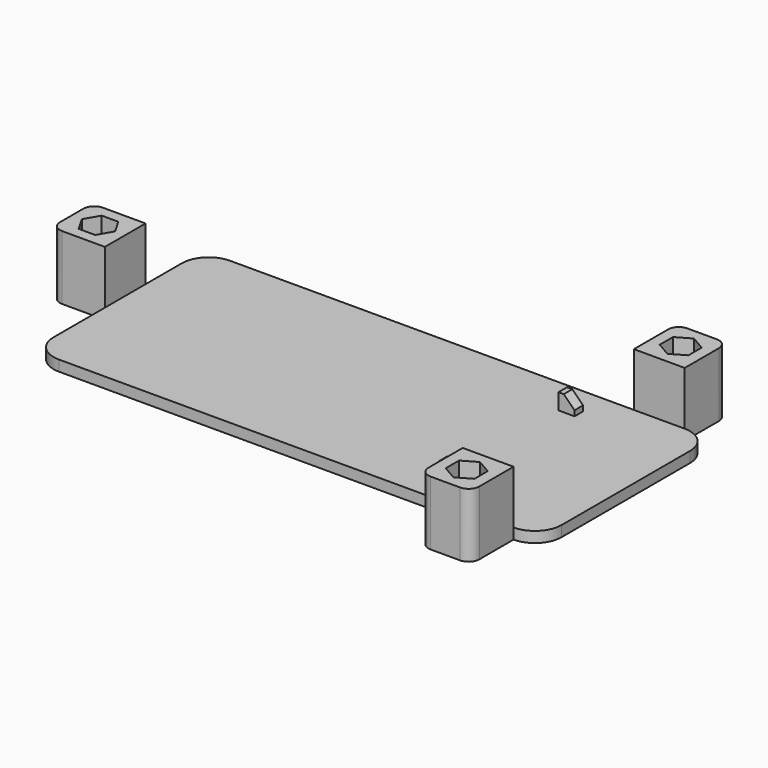
from build123d import *

# Parameters (mm, degrees)
PAD_DEPTH       = 2
SKETCH017_W     = 10
SKETCH017_H     = 9.5
SKETCH017_W_2   = 9.5
SKETCH017_H_2   = 10
PAD006_DEPTH    = 2
SKETCH018_W     = 10
SKETCH018_H     = 9.5
SKETCH018_W_2   = 9.5
SKETCH018_H_2   = 10
PAD007_DEPTH    = 10
SKETCH020_R     = 1.6
POCKET008_DEPTH = 9
POCKET011_DEPTH = 4
FILLET002_R     = 2
SKETCH028_W     = 3
SKETCH028_H     = 2
PAD010_DEPTH    = 3
CHAMFER_SIZE    = 2


with BuildPart() as part:
    # Sketch → Pad (new body)
    with BuildSketch(Plane.XY):
        with BuildLine():
            Line((5, 0), (90, 0))
            ThreePointArc((90, 0), (93.5355339059, 1.4644660941), (95, 5))
            Line((95, 5), (95, 35))
            ThreePointArc((95, 35), (93.5355339059, 38.5355339059), (90, 40))
            Line((90, 40), (5, 40))
            ThreePointArc((5, 40), (1.4644660941, 38.5355339059), (0, 35))
            Line((0, 35), (0, 5))
            ThreePointArc((0, 5), (1.4644660941, 1.4644660941), (5, 0))
        make_face()
    extrude(amount=PAD_DEPTH)

    # Sketch017 (on Face10 of Pad) → Pad006 (join)
    with BuildSketch(Plane.XY.offset(2)):
        with Locations((-5, 21.75)):
            Rectangle(SKETCH017_W, SKETCH017_H)
        with Locations((85.25, -5)):
            Rectangle(SKETCH017_W_2, SKETCH017_H_2)
        with Locations((85.25, 45)):
            Rectangle(SKETCH017_W_2, SKETCH017_H_2)
    extrude(amount=-PAD006_DEPTH)

    # Sketch018 (on Face18 of Pad006) → Pad007 (join)
    with BuildSketch(Plane.XY.offset(2)):
        with Locations((-5, 21.75)):
            Rectangle(SKETCH018_W, SKETCH018_H)
        with Locations((85.25, -5)):
            Rectangle(SKETCH018_W_2, SKETCH018_H_2)
        with Locations((85.25, 45)):
            Rectangle(SKETCH018_W_2, SKETCH018_H_2)
    extrude(amount=PAD007_DEPTH)

    # Sketch020 (on Face29 of Pad007) → Pocket008 (cut)
    with BuildSketch(Plane.XY.offset(12)):
        with Locations((85.25, -5)):
            Circle(SKETCH020_R)
        with Locations((85.25, 45)):
            Circle(SKETCH020_R)
        with Locations((-5, 21.75)):
            Circle(SKETCH020_R)
    extrude(amount=-POCKET008_DEPTH, mode=Mode.SUBTRACT)

    # Sketch021 (on Face29 of Pocket008) → Pocket011 (cut)
    with BuildSketch(Plane.XY.offset(12)):
        Polygon((87.9346787517, 43.45), (87.9346787517, 46.55), (85.25, 48.1), (82.5653212483, 46.55), (82.5653212483, 43.45), (85.25, 41.9), align=None)
        Polygon((87.9346787517, -6.55), (87.9346787517, -3.45), (85.25, -1.9), (82.5653212483, -3.45), (82.5653212483, -6.55), (85.25, -8.1), align=None)
        Polygon((-3.45, 19.0653212483), (-1.9, 21.75), (-3.45, 24.4346787517), (-6.55, 24.4346787517), (-8.1, 21.75), (-6.55, 19.0653212483), align=None)
    extrude(amount=-POCKET011_DEPTH, mode=Mode.SUBTRACT)

    # Fillet002
    fillet002_edges = [part.edges().sort_by_distance(p)[0] for p in [
        (-10, 17, 7),
        (-10, 26.5, 7),
        (80.5, 50, 7),
        (90, 50, 7),
        (80.5, -10, 7),
        (90, -10, 7),
    ]]
    fillet(fillet002_edges, radius=FILLET002_R)

    # Sketch028 (on Face12 of Fillet002) → Pad010 (join)
    with BuildSketch(Plane.XY.offset(2)):
        with Locations((73.5, 34)):
            Rectangle(SKETCH028_W, SKETCH028_H)
        with Locations((73.5, 6)):
            Rectangle(SKETCH028_W, SKETCH028_H)
    extrude(amount=PAD010_DEPTH)

    # Chamfer
    chamfer_edges = [part.edges().sort_by_distance(p)[0] for p in [
        (75, 6, 5),
        (75, 34, 5),
    ]]
    chamfer(chamfer_edges, length=CHAMFER_SIZE)


solid = part.part
